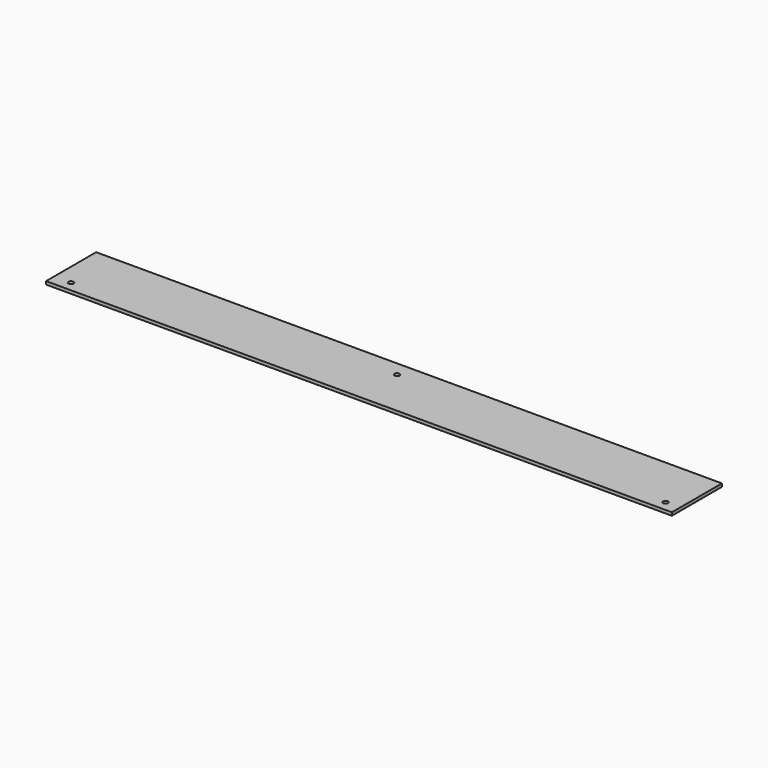
from build123d import *

# Parameters (mm, degrees)
F0_W     = 1000
F0_H     = 100
F0_R     = 4
F1_DEPTH = 5


with BuildPart() as f1:
    # F0 (on Top) → F1 (new body)
    with BuildSketch(Plane.XY):
        with Locations((0, 33.790241)):
            Rectangle(F0_W, F0_H)
        with Locations((-472.921221, 0)):
            Circle(F0_R, mode=Mode.SUBTRACT)
        with Locations((477.078779, 0)):
            Circle(F0_R, mode=Mode.SUBTRACT)
        with Locations((0, 60)):
            Circle(F0_R, mode=Mode.SUBTRACT)
    extrude(amount=F1_DEPTH)


solid = f1.part
